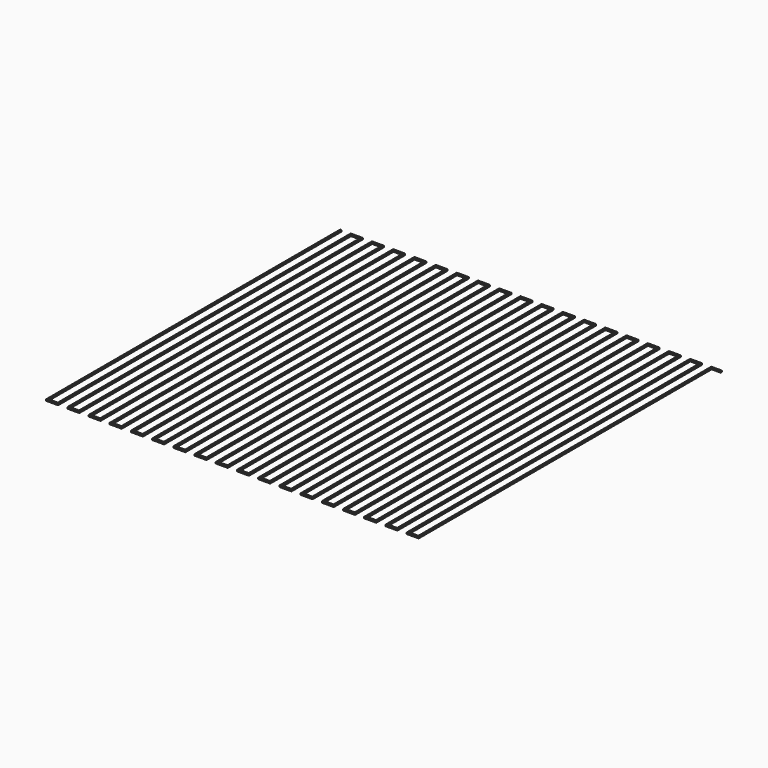
from build123d import *

# Parameters (mm, degrees)
F0_W     = 0.4
F0_H     = 103.6
F0_W_2   = 2.6
F0_H_2   = 0.4
F1_DEPTH = 0.4


with BuildPart() as f1:
    # F0 (on Top) → F1 (new body)
    with BuildSketch(Plane.XY):
        with Locations((-52.392799, -5.733955)):
            Rectangle(F0_W, F0_H)
        with Locations((54.107201, 45.866045)):
            Rectangle(F0_W_2, F0_H_2)
        with Locations((-52.392799, -57.733955)):
            Rectangle(F0_W, F0_H_2)
        with Locations((-50.892799, -57.733955)):
            Rectangle(F0_W_2, F0_H_2)
        Polygon((-49.592799, 45.666045), (-49.592799, -57.533955), (-49.592799, -57.933955), (-49.192799, -57.933955), (-49.192799, 45.666045), align=None)
        with Locations((-49.392799, 45.866045)):
            Rectangle(F0_W, F0_H_2)
        with Locations((-47.892799, 45.866045)):
            Rectangle(F0_W_2, F0_H_2)
        Polygon((-46.592799, 46.066045), (-46.592799, 45.666045), (-46.592799, -57.533955), (-46.192799, -57.533955), (-46.192799, 46.066045), align=None)
        with Locations((-46.392799, -57.733955)):
            Rectangle(F0_W, F0_H_2)
        with Locations((-44.892799, -57.733955)):
            Rectangle(F0_W_2, F0_H_2)
        Polygon((-43.592799, 45.666045), (-43.592799, -57.533955), (-43.592799, -57.933955), (-43.192799, -57.933955), (-43.192799, 45.666045), align=None)
        with Locations((-43.392799, 45.866045)):
            Rectangle(F0_W, F0_H_2)
        with Locations((-41.892799, 45.866045)):
            Rectangle(F0_W_2, F0_H_2)
        Polygon((-40.592799, 46.066045), (-40.592799, 45.666045), (-40.592799, -57.533955), (-40.192799, -57.533955), (-40.192799, 46.066045), align=None)
        with Locations((-40.392799, -57.733955)):
            Rectangle(F0_W, F0_H_2)
        with Locations((-38.892799, -57.733955)):
            Rectangle(F0_W_2, F0_H_2)
        Polygon((-37.592799, 45.666045), (-37.592799, -57.533955), (-37.592799, -57.933955), (-37.192799, -57.933955), (-37.192799, 45.666045), align=None)
        with Locations((-37.392799, 45.866045)):
            Rectangle(F0_W, F0_H_2)
        with Locations((-35.892799, 45.866045)):
            Rectangle(F0_W_2, F0_H_2)
        Polygon((-34.592799, 46.066045), (-34.592799, 45.666045), (-34.592799, -57.533955), (-34.192799, -57.533955), (-34.192799, 46.066045), align=None)
        with Locations((-34.392799, -57.733955)):
            Rectangle(F0_W, F0_H_2)
        with Locations((-32.892799, -57.733955)):
            Rectangle(F0_W_2, F0_H_2)
        Polygon((-31.592799, 45.666045), (-31.592799, -57.533955), (-31.592799, -57.933955), (-31.192799, -57.933955), (-31.192799, 45.666045), align=None)
        with Locations((-31.392799, 45.866045)):
            Rectangle(F0_W, F0_H_2)
        with Locations((-29.892799, 45.866045)):
            Rectangle(F0_W_2, F0_H_2)
        Polygon((-28.592799, 46.066045), (-28.592799, 45.666045), (-28.592799, -57.533955), (-28.192799, -57.533955), (-28.192799, 46.066045), align=None)
        with Locations((-28.392799, -57.733955)):
            Rectangle(F0_W, F0_H_2)
        with Locations((-26.892799, -57.733955)):
            Rectangle(F0_W_2, F0_H_2)
        Polygon((-25.592799, 45.666045), (-25.592799, -57.533955), (-25.592799, -57.933955), (-25.192799, -57.933955), (-25.192799, 45.666045), align=None)
        with Locations((-25.392799, 45.866045)):
            Rectangle(F0_W, F0_H_2)
        with Locations((-23.892799, 45.866045)):
            Rectangle(F0_W_2, F0_H_2)
        Polygon((-22.592799, 46.066045), (-22.592799, 45.666045), (-22.592799, -57.533955), (-22.192799, -57.533955), (-22.192799, 46.066045), align=None)
        with Locations((-22.392799, -57.733955)):
            Rectangle(F0_W, F0_H_2)
        with Locations((-20.892799, -57.733955)):
            Rectangle(F0_W_2, F0_H_2)
        Polygon((-19.592799, 45.666045), (-19.592799, -57.533955), (-19.592799, -57.933955), (-19.192799, -57.933955), (-19.192799, 45.666045), align=None)
        with Locations((-19.392799, 45.866045)):
            Rectangle(F0_W, F0_H_2)
        with Locations((-17.892799, 45.866045)):
            Rectangle(F0_W_2, F0_H_2)
        Polygon((-16.592799, 46.066045), (-16.592799, 45.666045), (-16.592799, -57.533955), (-16.192799, -57.533955), (-16.192799, 46.066045), align=None)
        with Locations((-16.392799, -57.733955)):
            Rectangle(F0_W, F0_H_2)
        with Locations((-14.892799, -57.733955)):
            Rectangle(F0_W_2, F0_H_2)
        Polygon((-13.592799, 45.666045), (-13.592799, -57.533955), (-13.592799, -57.933955), (-13.192799, -57.933955), (-13.192799, 45.666045), align=None)
        with Locations((-13.392799, 45.866045)):
            Rectangle(F0_W, F0_H_2)
        with Locations((-11.892799, 45.866045)):
            Rectangle(F0_W_2, F0_H_2)
        Polygon((-10.592799, 46.066045), (-10.592799, 45.666045), (-10.592799, -57.533955), (-10.192799, -57.533955), (-10.192799, 46.066045), align=None)
        with Locations((-10.392799, -57.733955)):
            Rectangle(F0_W, F0_H_2)
        with Locations((-8.892799, -57.733955)):
            Rectangle(F0_W_2, F0_H_2)
        Polygon((-7.592799, 45.666045), (-7.592799, -57.533955), (-7.592799, -57.933955), (-7.192799, -57.933955), (-7.192799, 45.666045), align=None)
        with Locations((-7.392799, 45.866045)):
            Rectangle(F0_W, F0_H_2)
        with Locations((-5.892799, 45.866045)):
            Rectangle(F0_W_2, F0_H_2)
        Polygon((-4.592799, 46.066045), (-4.592799, 45.666045), (-4.592799, -57.533955), (-4.192799, -57.533955), (-4.192799, 46.066045), align=None)
        with Locations((-4.392799, -57.733955)):
            Rectangle(F0_W, F0_H_2)
        with Locations((-2.892799, -57.733955)):
            Rectangle(F0_W_2, F0_H_2)
        Polygon((-1.592799, 45.666045), (-1.592799, -57.533955), (-1.592799, -57.933955), (-1.192799, -57.933955), (-1.192799, 45.666045), align=None)
        with Locations((-1.392799, 45.866045)):
            Rectangle(F0_W, F0_H_2)
        with Locations((0.107201, 45.866045)):
            Rectangle(F0_W_2, F0_H_2)
        Polygon((1.407201, 46.066045), (1.407201, 45.666045), (1.407201, -57.533955), (1.807201, -57.533955), (1.807201, 46.066045), align=None)
        with Locations((1.607201, -57.733955)):
            Rectangle(F0_W, F0_H_2)
        with Locations((3.107201, -57.733955)):
            Rectangle(F0_W_2, F0_H_2)
        Polygon((4.407201, 45.666045), (4.407201, -57.533955), (4.407201, -57.933955), (4.807201, -57.933955), (4.807201, 45.666045), align=None)
        with Locations((4.607201, 45.866045)):
            Rectangle(F0_W, F0_H_2)
        with Locations((6.107201, 45.866045)):
            Rectangle(F0_W_2, F0_H_2)
        Polygon((7.407201, 46.066045), (7.407201, 45.666045), (7.407201, -57.533955), (7.807201, -57.533955), (7.807201, 46.066045), align=None)
        with Locations((7.607201, -57.733955)):
            Rectangle(F0_W, F0_H_2)
        with Locations((9.107201, -57.733955)):
            Rectangle(F0_W_2, F0_H_2)
        Polygon((10.407201, 45.666045), (10.407201, -57.533955), (10.407201, -57.933955), (10.807201, -57.933955), (10.807201, 45.666045), align=None)
        with Locations((10.607201, 45.866045)):
            Rectangle(F0_W, F0_H_2)
        with Locations((12.107201, 45.866045)):
            Rectangle(F0_W_2, F0_H_2)
        Polygon((13.407201, 46.066045), (13.407201, 45.666045), (13.407201, -57.533955), (13.807201, -57.533955), (13.807201, 46.066045), align=None)
        with Locations((13.607201, -57.733955)):
            Rectangle(F0_W, F0_H_2)
        with Locations((15.107201, -57.733955)):
            Rectangle(F0_W_2, F0_H_2)
        Polygon((16.407201, 45.666045), (16.407201, -57.533955), (16.407201, -57.933955), (16.807201, -57.933955), (16.807201, 45.666045), align=None)
        with Locations((16.607201, 45.866045)):
            Rectangle(F0_W, F0_H_2)
        with Locations((18.107201, 45.866045)):
            Rectangle(F0_W_2, F0_H_2)
        Polygon((19.407201, 46.066045), (19.407201, 45.666045), (19.407201, -57.533955), (19.807201, -57.533955), (19.807201, 46.066045), align=None)
        with Locations((19.607201, -57.733955)):
            Rectangle(F0_W, F0_H_2)
        with Locations((21.107201, -57.733955)):
            Rectangle(F0_W_2, F0_H_2)
        Polygon((22.407201, 45.666045), (22.407201, -57.533955), (22.407201, -57.933955), (22.807201, -57.933955), (22.807201, 45.666045), align=None)
        with Locations((22.607201, 45.866045)):
            Rectangle(F0_W, F0_H_2)
        with Locations((24.107201, 45.866045)):
            Rectangle(F0_W_2, F0_H_2)
        Polygon((25.407201, 46.066045), (25.407201, 45.666045), (25.407201, -57.533955), (25.807201, -57.533955), (25.807201, 46.066045), align=None)
        with Locations((25.607201, -57.733955)):
            Rectangle(F0_W, F0_H_2)
        with Locations((27.107201, -57.733955)):
            Rectangle(F0_W_2, F0_H_2)
        Polygon((28.407201, 45.666045), (28.407201, -57.533955), (28.407201, -57.933955), (28.807201, -57.933955), (28.807201, 45.666045), align=None)
        with Locations((28.607201, 45.866045)):
            Rectangle(F0_W, F0_H_2)
        with Locations((30.107201, 45.866045)):
            Rectangle(F0_W_2, F0_H_2)
        Polygon((31.407201, 46.066045), (31.407201, 45.666045), (31.407201, -57.533955), (31.807201, -57.533955), (31.807201, 46.066045), align=None)
        with Locations((31.607201, -57.733955)):
            Rectangle(F0_W, F0_H_2)
        with Locations((33.107201, -57.733955)):
            Rectangle(F0_W_2, F0_H_2)
        Polygon((34.407201, 45.666045), (34.407201, -57.533955), (34.407201, -57.933955), (34.807201, -57.933955), (34.807201, 45.666045), align=None)
        with Locations((34.607201, 45.866045)):
            Rectangle(F0_W, F0_H_2)
        with Locations((36.107201, 45.866045)):
            Rectangle(F0_W_2, F0_H_2)
        Polygon((37.407201, 46.066045), (37.407201, 45.666045), (37.407201, -57.533955), (37.807201, -57.533955), (37.807201, 46.066045), align=None)
        with Locations((37.607201, -57.733955)):
            Rectangle(F0_W, F0_H_2)
        with Locations((39.107201, -57.733955)):
            Rectangle(F0_W_2, F0_H_2)
        Polygon((40.407201, 45.666045), (40.407201, -57.533955), (40.407201, -57.933955), (40.807201, -57.933955), (40.807201, 45.666045), align=None)
        with Locations((40.607201, 45.866045)):
            Rectangle(F0_W, F0_H_2)
        with Locations((42.107201, 45.866045)):
            Rectangle(F0_W_2, F0_H_2)
        Polygon((43.407201, 46.066045), (43.407201, 45.666045), (43.407201, -57.533955), (43.807201, -57.533955), (43.807201, 46.066045), align=None)
        with Locations((43.607201, -57.733955)):
            Rectangle(F0_W, F0_H_2)
        with Locations((45.107201, -57.733955)):
            Rectangle(F0_W_2, F0_H_2)
        Polygon((46.407201, 45.666045), (46.407201, -57.533955), (46.407201, -57.933955), (46.807201, -57.933955), (46.807201, 45.666045), align=None)
        with Locations((46.607201, 45.866045)):
            Rectangle(F0_W, F0_H_2)
        with Locations((48.107201, 45.866045)):
            Rectangle(F0_W_2, F0_H_2)
        Polygon((49.407201, 46.066045), (49.407201, 45.666045), (49.407201, -57.533955), (49.807201, -57.533955), (49.807201, 46.066045), align=None)
        with Locations((49.607201, -57.733955)):
            Rectangle(F0_W, F0_H_2)
        with Locations((51.107201, -57.733955)):
            Rectangle(F0_W_2, F0_H_2)
        Polygon((52.407201, 45.666045), (52.407201, -57.533955), (52.407201, -57.933955), (52.807201, -57.933955), (52.807201, 45.666045), align=None)
        with Locations((52.607201, 45.866045)):
            Rectangle(F0_W, F0_H_2)
    extrude(amount=F1_DEPTH)


solid = f1.part
